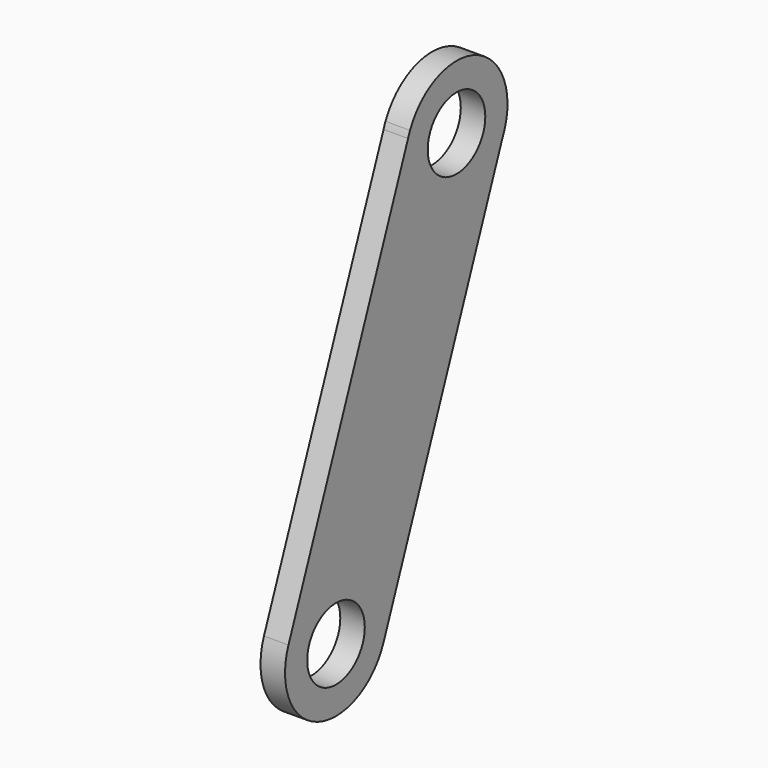
from build123d import *

# Parameters (mm, degrees)
F0_R     = 4.6609
F1_DEPTH = 3.175


with BuildPart() as f1:
    # F0 (on Right) → F1 (new body)
    with BuildSketch(Plane.YZ):
        with BuildLine():
            ThreePointArc((-13.190587, -22.021807), (-12.928272, -20.844888), (-12.840207, -19.642311))
            ThreePointArc((-12.840207, -19.642311), (-19.364331, -11.570813), (-28.62436, -16.257511))
            Line((-28.62436, -16.257511), (-28.936124, -17.060636))
            ThreePointArc((-28.936124, -17.060636), (-24.175986, -27.30089), (-13.650699, -23.209429))
            Line((-13.650699, -23.209429), (-13.190587, -22.021807))
        make_face()
        with Locations((-21.095207, -19.642311)):
            Circle(F0_R, mode=Mode.SUBTRACT)
        with BuildLine():
            Line((-28.936124, -17.060636), (-28.62436, -16.257511))
            ThreePointArc((-28.62436, -16.257511), (-28.790726, -16.655004), (-28.936124, -17.060636))
        make_face()
        with BuildLine():
            ThreePointArc((-13.650699, -23.209429), (-13.397704, -22.624505), (-13.190587, -22.021807))
            Line((-13.190587, -22.021807), (-13.650699, -23.209429))
        make_face()
        with BuildLine():
            ThreePointArc((-13.650699, -23.209429), (-24.175986, -27.30089), (-28.936124, -17.060636))
            Line((-28.936124, -17.060636), (-48.301815, -66.948049))
            ThreePointArc((-48.301815, -66.948049), (-39.086672, -61.821433), (-32.351296, -69.935357))
            ThreePointArc((-32.351296, -69.935357), (-32.491867, -71.452285), (-32.908793, -72.91755))
            Line((-32.908793, -72.91755), (-13.650699, -23.209429))
        make_face()
        with BuildLine():
            ThreePointArc((-32.351296, -69.935357), (-39.086672, -61.821433), (-48.301815, -66.948049))
            ThreePointArc((-48.301815, -66.948049), (-43.591047, -77.631868), (-32.908793, -72.91755))
            ThreePointArc((-32.908793, -72.91755), (-32.491867, -71.452285), (-32.351296, -69.935357))
        make_face()
        with Locations((-40.606296, -69.935357)):
            Circle(F0_R, mode=Mode.SUBTRACT)
    extrude(amount=F1_DEPTH)


solid = f1.part
